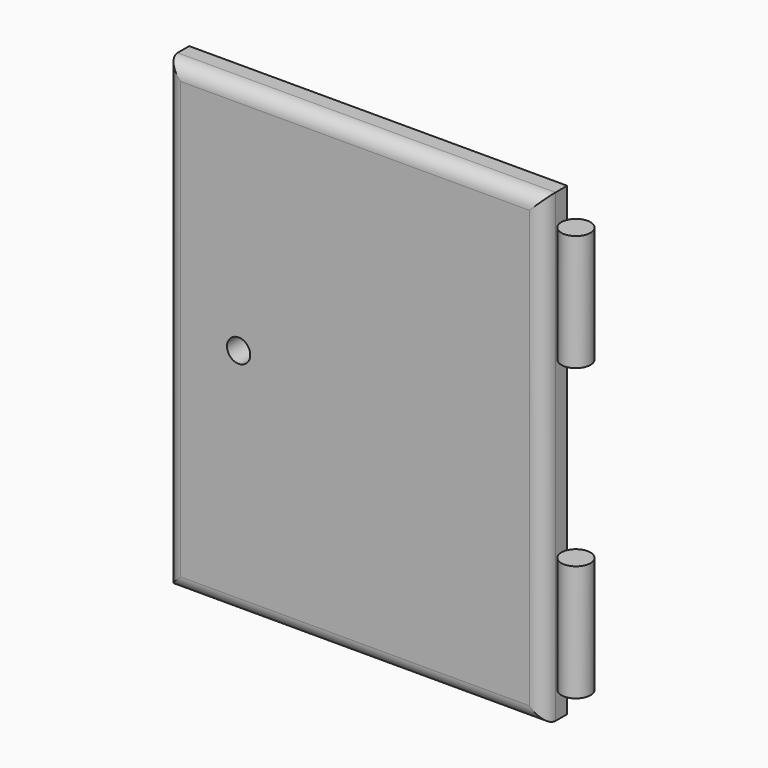
from build123d import *

# Parameters (mm, degrees)
F0_W      = 23.6
F0_H      = 29.6
F1_DEPTH  = 1
F0_W_2    = 26
F0_H_2    = 32
F2_DEPTH  = 2
F3_R      = 1
F4_R      = 0.8
F5_DEPTH  = 5
F7_DEPTH  = 10
F7_FACE_R = 1
F8_DEPTH  = 2


with BuildPart() as f1:
    # F0 (on Front) → F1 (new body)
    with BuildSketch(Plane.XZ):
        Rectangle(F0_W, F0_H)
    extrude(amount=-F1_DEPTH)

    # F0 (on Front) → F2 (join)
    with BuildSketch(Plane.XZ):
        Rectangle(F0_W_2, F0_H_2)
        Rectangle(F0_W, F0_H, mode=Mode.SUBTRACT)
        Rectangle(F0_W, F0_H)
    extrude(amount=F2_DEPTH)

    # F3
    f3_edges = [f1.edges().sort_by_distance(p)[0] for p in [
        (13, -2, 0),
        (0, -2, 16),
        (-13, -2, 0),
        (0, -2, -16),
    ]]
    fillet(f3_edges, radius=F3_R)

    # F4 (on face) → F5 (cut)
    with BuildSketch(Plane.XZ.offset(2)):
        with Locations((-8, 0)):
            Circle(F4_R)
    extrude(amount=-F5_DEPTH, mode=Mode.SUBTRACT)


with BuildPart() as f7:
    # F6 (on face) → F7 (new body)
    with BuildSketch(Plane.XY.offset(16)):
        with BuildLine():
            ThreePointArc((13, -0.5), (14, -1.5), (15, -0.5))
            ThreePointArc((15, -0.5), (14, 0.5), (13, -0.5))
        make_face()
    extrude(amount=-F7_DEPTH)

    # F7_face (on face) → F8 (cut)
    with BuildSketch(Plane(origin=(14, -0.5, 16), x_dir=(1, 0, 0), z_dir=(0, 0, 1))):
        Circle(F7_FACE_R)
    extrude(amount=-F8_DEPTH, mode=Mode.SUBTRACT)


with BuildPart() as f9_1:
    # F9: copy of F7
    add(f7.part.moved(Location((0, 0, -20))))


solid = Compound([f1.part, f7.part, f9_1.part])
